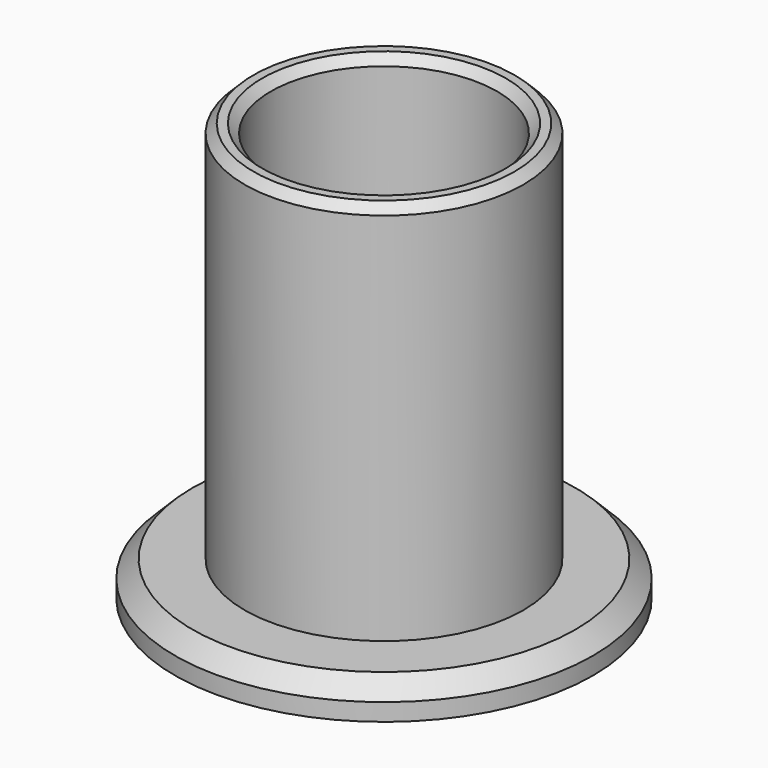
from build123d import *

# Parameters (mm, degrees)
SKETCH_R        = 8
SKETCH_R_2      = 6.5
PAD_DEPTH       = 24
CHAMFER_SIZE    = 0.5
SKETCH001_R     = 12
SKETCH001_R_2   = 6.5
PAD001_DEPTH    = 2
CHAMFER001_SIZE = 0.5
CHAMFER002_SIZE = 1
CHAMFER003_SIZE = 0.5


with BuildPart() as part:
    # Sketch → Pad (new body)
    with BuildSketch(Plane.XY):
        Circle(SKETCH_R)
        Circle(SKETCH_R_2, mode=Mode.SUBTRACT)
    extrude(amount=PAD_DEPTH)

    # Chamfer
    chamfer_edges = [part.edges().sort_by_distance(p)[0] for p in [
        (-6.5, 0, 24),
    ]]
    chamfer(chamfer_edges, length=CHAMFER_SIZE)

    # Sketch001 → Pad001 (join)
    with BuildSketch(Plane.XY):
        Circle(SKETCH001_R)
        Circle(SKETCH001_R_2, mode=Mode.SUBTRACT)
    extrude(amount=PAD001_DEPTH)

    # Chamfer001
    chamfer001_edges = [part.edges().sort_by_distance(p)[0] for p in [
        (-6.5, 0, 0),
    ]]
    chamfer(chamfer001_edges, length=CHAMFER001_SIZE)

    # Chamfer002
    chamfer002_edges = [part.edges().sort_by_distance(p)[0] for p in [
        (-12, 0, 2),
    ]]
    chamfer(chamfer002_edges, length=CHAMFER002_SIZE)

    # Chamfer003
    chamfer003_edges = [part.edges().sort_by_distance(p)[0] for p in [
        (-8, 0, 24),
    ]]
    chamfer(chamfer003_edges, length=CHAMFER003_SIZE)


solid = part.part
